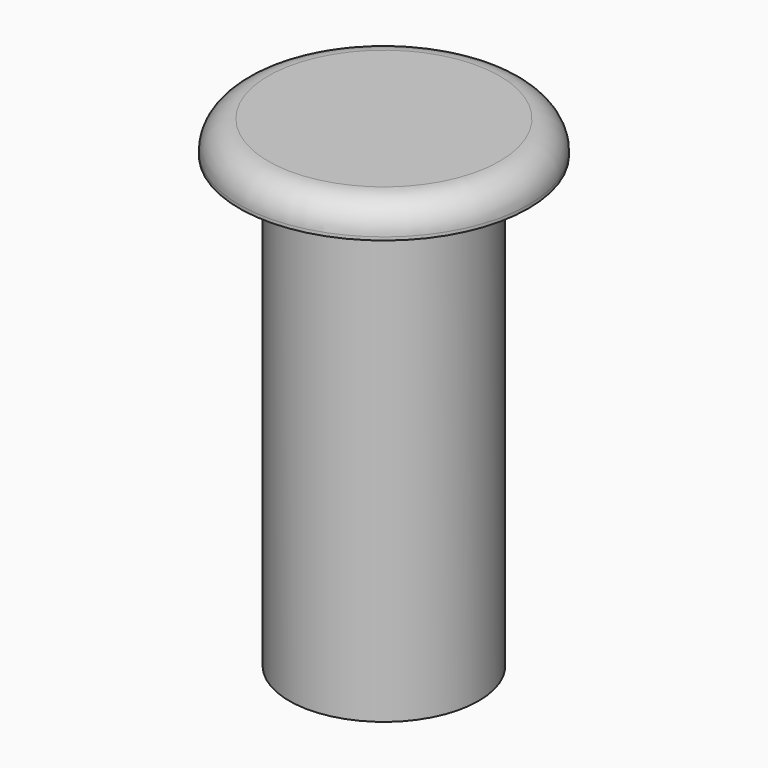
from build123d import *

# Parameters (mm, degrees)
CYLINDER001_R     = 4.5
CYLINDER001_DEPTH = 1
FILLET_R          = 0.9
CYLINDER_R        = 2.95
CYLINDER_DEPTH    = 15


with BuildPart() as fillet_body:
    # Cylinder001 → Cylinder001 (new body)
    with BuildSketch(Plane.XY.offset(14)):
        Circle(CYLINDER001_R)
    extrude(amount=CYLINDER001_DEPTH)

    # Fillet
    fillet_edges = [fillet_body.edges().sort_by_distance(p)[0] for p in [
        (-4.5, 0, 15),
    ]]
    fillet(fillet_edges, radius=FILLET_R)


with BuildPart() as fusion:
    # Cylinder → Cylinder (new body)
    with BuildSketch(Plane.XY):
        Circle(CYLINDER_R)
    extrude(amount=CYLINDER_DEPTH)

    # Fusion: union Fillet body
    add(fillet_body.part)


solid = fusion.part
